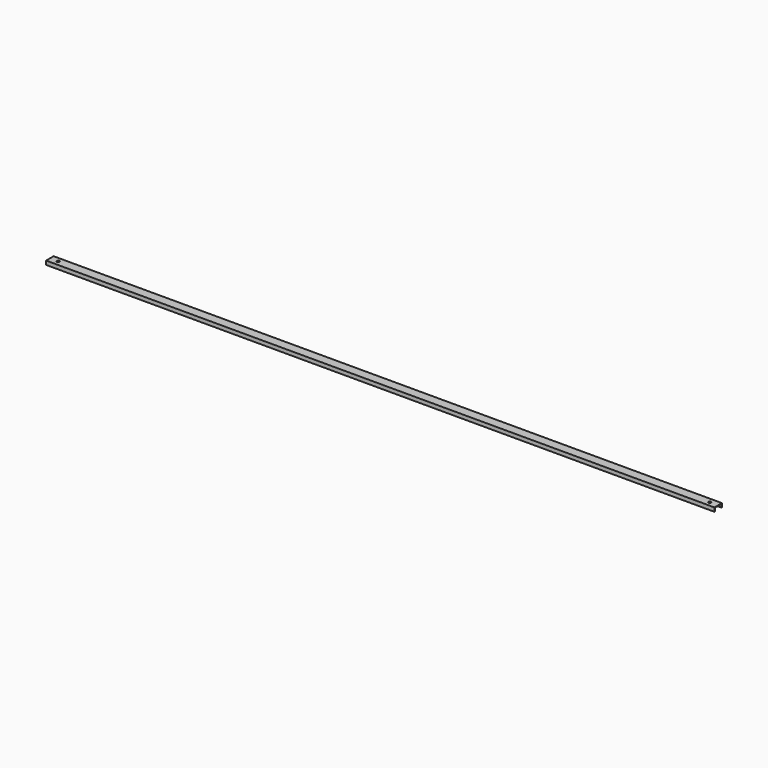
from build123d import *

# Parameters (mm, degrees)
PAD001_DEPTH = 1016
SKETCH_R     = 3.96875
POCKET_DEPTH = 6.35


with BuildPart() as part:
    # Sketch004 → Pad001 (new body, symmetric)
    with BuildSketch(Plane.YZ):
        Polygon((-12.7, 14.789829), (-12.7, 24.977896), (12.7, 24.977896), (12.7, 14.789829), (14.325, 14.789829), (14.325, 26.566591), (-14.325, 26.566591), (-14.325, 14.789829), align=None)
    extrude(amount=PAD001_DEPTH, both=True)

    # Sketch (on Face6 of Pad001) → Pocket (cut)
    with BuildSketch(Plane(origin=(0, 0, 26.566591), x_dir=(0, -1, 0), z_dir=(0, 0, 1))):
        with Locations((0, 990.6)):
            Circle(SKETCH_R)
    pocket = extrude(amount=-POCKET_DEPTH, mode=Mode.SUBTRACT)

    # Mirrored: Pocket across Sketch H_Axis
    add(pocket.mirror(Plane(origin=(0, 0, 26.566591), x_dir=(0, 0, 1), z_dir=(1, 0, 0))), mode=Mode.SUBTRACT)


with BuildPart() as part_1:
    # Body001 placement: moved
    add(part.part.moved(Location((0, 0, 19.05))))


solid = part_1.part
